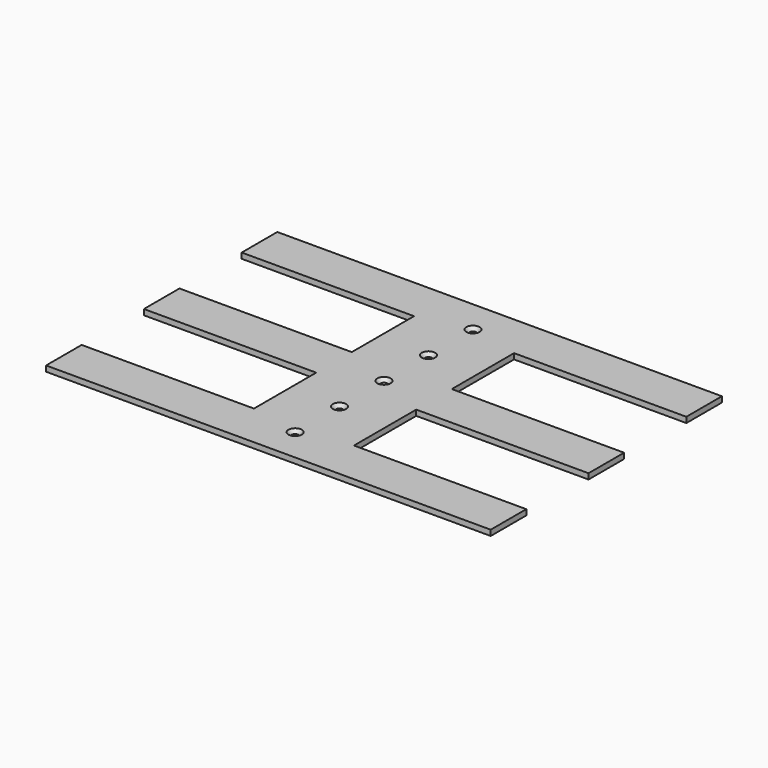
from build123d import *

# Parameters (mm, degrees)
PAD_DEPTH        = 5
HOLE_D           = 6
HOLE_DEPTH       = 25
HOLE_CSINK_D     = 12
HOLE_CSINK_ANGLE = 90


with BuildPart() as part:
    # Sketch → Pad (new body)
    with BuildSketch(Plane.XY):
        Polygon((-200, 130), (200, 130), (200, 90), (45, 90), (45, 20), (200, 20), (200, -20), (45, -20), (45, -90), (200, -90), (200, -130), (-200, -130), (-200, -90), (-45, -90), (-45, -20), (-200, -20), (-200, 20), (-45, 20), (-45, 90), (-200, 90), align=None)
    extrude(amount=PAD_DEPTH)

    # Hole
    with Locations(Plane.XY.offset(5)):
        with Locations((0, 0), (0, 50), (0, 100), (0, -50), (0, -100)):
            CounterSinkHole(HOLE_D / 2, HOLE_CSINK_D / 2, depth=HOLE_DEPTH, counter_sink_angle=HOLE_CSINK_ANGLE)


solid = part.part
